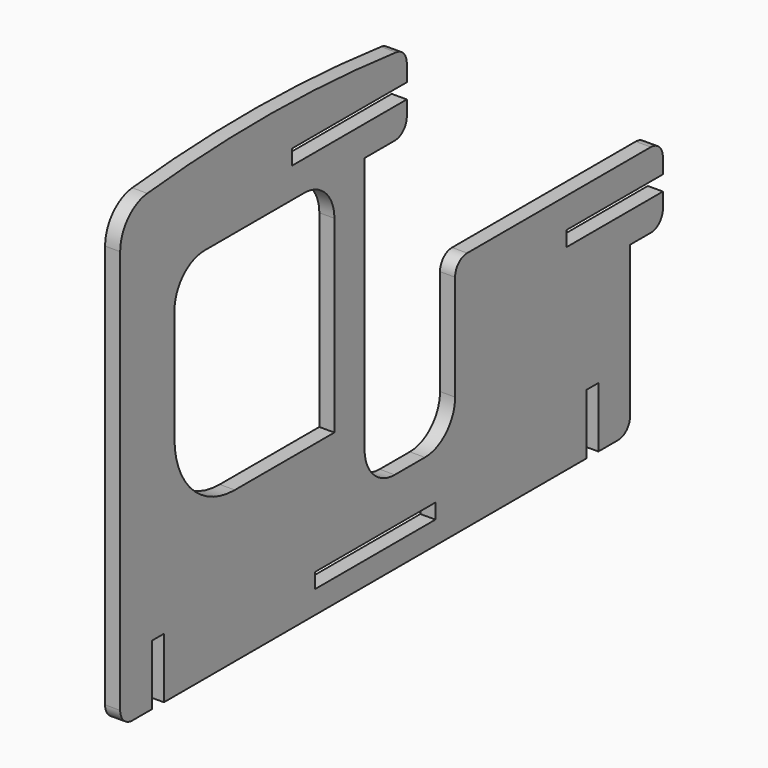
from build123d import *

# Parameters (mm, degrees)
F0_W     = 20
F0_H     = 2
F1_DEPTH = 2


with BuildPart() as f1:
    # F0 (on Right) → F1 (new body)
    with BuildSketch(Plane.YZ):
        with BuildLine():
            ThreePointArc((-23.75, -28), (-23.164214, -29.414214), (-21.75, -30))
            Line((-21.75, -30), (-18.5, -30))
            Line((-18.5, -30), (-18.5, -22))
            Line((-18.5, -22), (-16.5, -22))
            Line((-16.5, -22), (-16.5, -30))
            Line((-16.5, -30), (23.75, -30))
            Line((23.75, -30), (53.5, -30))
            Line((53.5, -30), (53.5, -22))
            Line((53.5, -22), (55.5, -22))
            Line((55.5, -22), (55.5, -30))
            Line((55.5, -30), (58.75, -30))
            ThreePointArc((58.75, -30), (60.164214, -29.414214), (60.75, -28))
            Line((60.75, -28), (60.75, -8))
            Line((60.75, -8), (64.188984, -8))
            ThreePointArc((64.188984, -8), (65.603197, -7.414214), (66.188984, -6))
            Line((66.188984, -6), (66.188984, -4))
            Line((66.188984, -4), (50.188984, -4))
            Line((50.188984, -4), (50.188984, -2))
            Line((50.188984, -2), (66.188984, -2))
            Line((66.188984, -2), (66.188984, 0))
            ThreePointArc((66.188984, 0), (65.603197, 1.414214), (64.188984, 2))
            Line((64.188984, 2), (33.75, 2))
            ThreePointArc((33.75, 2), (32.335786, 1.414214), (31.75, 0))
            Line((31.75, 0), (31.75, -14))
            ThreePointArc((31.75, -14), (30.285534, -17.535534), (26.75, -19))
            Line((26.75, -19), (21.75, -19))
            ThreePointArc((21.75, -19), (18.214466, -17.535534), (16.75, -14))
            Line((16.75, -14), (16.75, 20))
            Line((16.75, 20), (21.75, 20))
            ThreePointArc((21.75, 20), (23.164214, 20.585786), (23.75, 22))
            Line((23.75, 22), (23.75, 24))
            Line((23.75, 24), (4.75, 24))
            Line((4.75, 24), (4.75, 26))
            Line((4.75, 26), (23.75, 26))
            Line((23.75, 26), (23.75, 28.229252))
            ThreePointArc((23.75, 28.229252), (23.244291, 29.558573), (21.982906, 30.215645))
            ThreePointArc((21.982906, 30.215645), (1.369577, 31.495032), (-19.260146, 30.51488))
            ThreePointArc((-19.260146, 30.51488), (-22.461518, 28.891292), (-23.75, 25.540973))
            Line((-23.75, 25.540973), (-23.75, -28))
        make_face()
        with Locations((18.5, -25.970025)):
            Rectangle(F0_W, F0_H, mode=Mode.SUBTRACT)
        with BuildLine():
            ThreePointArc((-14.75, 15), (-13.285534, 18.535534), (-9.75, 20))
            Line((-9.75, 20), (6.75, 20))
            ThreePointArc((6.75, 20), (10.285534, 18.535534), (11.75, 15))
            Line((11.75, 15), (11.75, -10))
            Line((11.75, -10), (-4.75, -10))
            ThreePointArc((-4.75, -10), (-11.821068, -7.071068), (-14.75, 0))
            Line((-14.75, 0), (-14.75, 15))
        make_face(mode=Mode.SUBTRACT)
    extrude(amount=F1_DEPTH)


solid = f1.part
